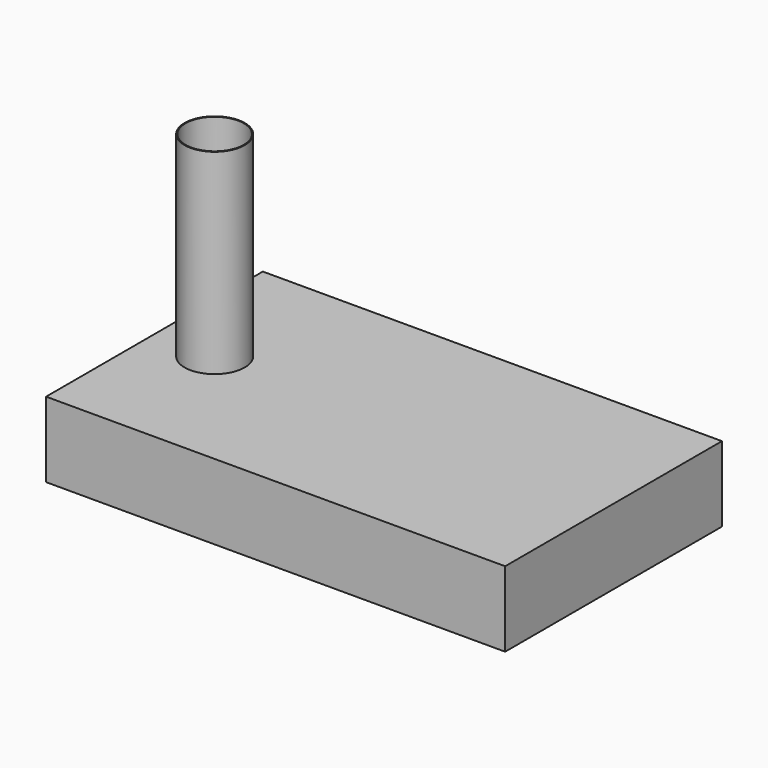
from build123d import *

# Parameters (mm, degrees)
F0_W     = 1549.4
F0_H     = 914.4
F1_DEPTH = 254
F2_R     = 101.6
F2_R_2   = 98.425
F3_DEPTH = 660.4


with BuildPart() as f1:
    # F0 (on Top) → F1 (new body)
    with BuildSketch(Plane.XY):
        Rectangle(F0_W, F0_H)
    extrude(amount=F1_DEPTH)

    # F2 (on face) → F3 (join)
    with BuildSketch(Plane.XY.offset(254)):
        with Locations((-571.5, 0)):
            Circle(F2_R)
        with Locations((-571.5, 0)):
            Circle(F2_R_2, mode=Mode.SUBTRACT)
    extrude(amount=F3_DEPTH)


solid = f1.part
